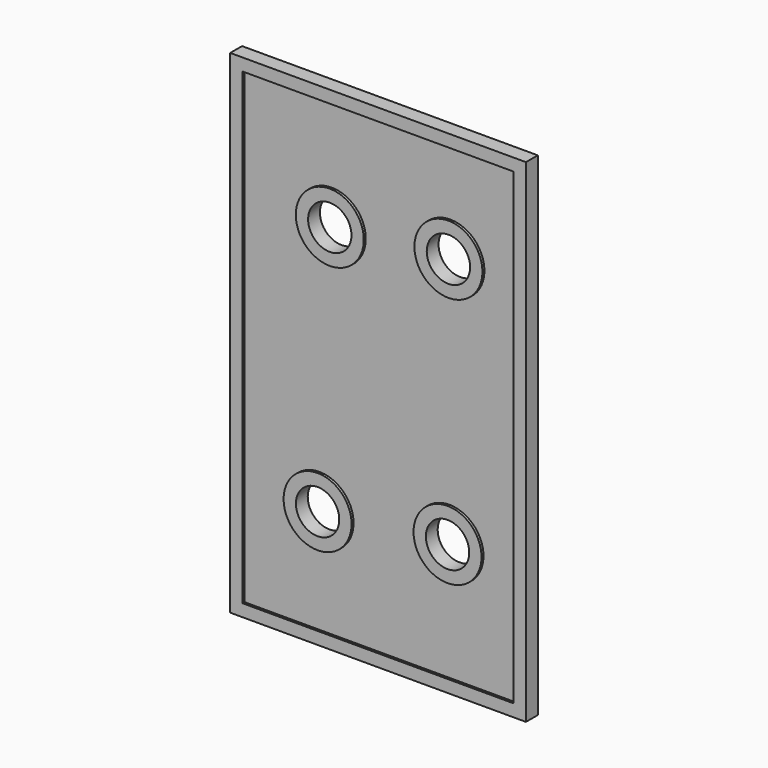
from build123d import *

# Parameters (mm, degrees)
F0_W     = 60
F0_H     = 100
F1_DEPTH = 3
F3_D     = 8.8
F4_T     = -2.5


with BuildPart() as f1:
    # F0 (on Front) → F1 (new body)
    with BuildSketch(Plane.XZ):
        Rectangle(F0_W, F0_H)
    extrude(amount=F1_DEPTH)

    # F3 (through all)
    with Locations(Plane.XZ.offset(3)):
        with Locations((-9.7982781008, 25.4148039967), (14.2741240561, 27.5341067463), (14.0938721597, -23.4790239483), (-12.2754974291, -26.1800661683)):
            Hole(F3_D / 2)

    # F4
    f4_openings = [f1.faces().sort_by_distance(p)[0] for p in [
        (-0.0665, -3, -0.034758),
    ]]
    offset(amount=F4_T, openings=f4_openings)


solid = f1.part
